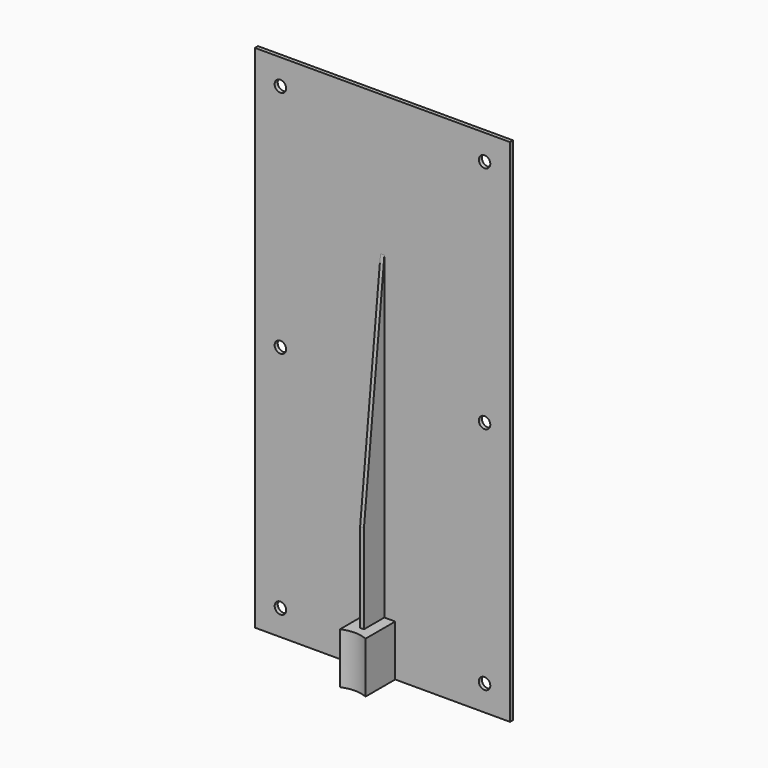
from build123d import *

# Parameters (mm, degrees)
F0_W     = 200
F0_H     = 400
F0_R     = 4.5
F1_DEPTH = 3
F2_W     = 20
F2_H     = 40
F3_DEPTH = 30
F5_DEPTH = 42.5
F4_W     = 3
F4_H     = 20
F6_DEPTH = 250
F8_DEPTH = 25


with BuildPart() as f1:
    # F0 (on Front) → F1 (new body)
    with BuildSketch(Plane.XZ):
        Rectangle(F0_W, F0_H)
        with Locations((-80, -180)):
            Circle(F0_R, mode=Mode.SUBTRACT)
        with Locations((80, -180)):
            Circle(F0_R, mode=Mode.SUBTRACT)
        with Locations((-80, 0)):
            Circle(F0_R, mode=Mode.SUBTRACT)
        with Locations((-80, 180)):
            Circle(F0_R, mode=Mode.SUBTRACT)
        with Locations((80, 0)):
            Circle(F0_R, mode=Mode.SUBTRACT)
        with Locations((80, 180)):
            Circle(F0_R, mode=Mode.SUBTRACT)
    extrude(amount=F1_DEPTH)


with BuildPart() as f3:
    # F2 (on face) → F3 (new body)
    with BuildSketch(Plane.XZ.offset(3)):
        with Locations((0, -180)):
            Rectangle(F2_W, F2_H)
    extrude(amount=F3_DEPTH)

    # F4 (on face) → F5 (cut)
    with BuildSketch(Plane.XY.offset(-160)):
        with BuildLine():
            Line((10, -33), (10, -32.087122))
            ThreePointArc((10, -32.087122), (0, -30), (-10, -32.087122))
            Line((-10, -32.087122), (-10, -33))
            Line((-10, -33), (10, -33))
        make_face()
    extrude(amount=-F5_DEPTH, mode=Mode.SUBTRACT)


with BuildPart() as f6:
    # F4 (on face) → F6 (new body)
    with BuildSketch(Plane.XY.offset(-160)):
        with Locations((0, -13)):
            Rectangle(F4_W, F4_H)
    extrude(amount=F6_DEPTH)

    # F7 (on face) → F8 (cut)
    with BuildSketch(Plane.YZ.offset(1.5)):
        Polygon((-23, -90), (-3, 90), (-23, 90), align=None)
    extrude(amount=-F8_DEPTH, mode=Mode.SUBTRACT)


solid = Compound([f1.part, f3.part, f6.part])
